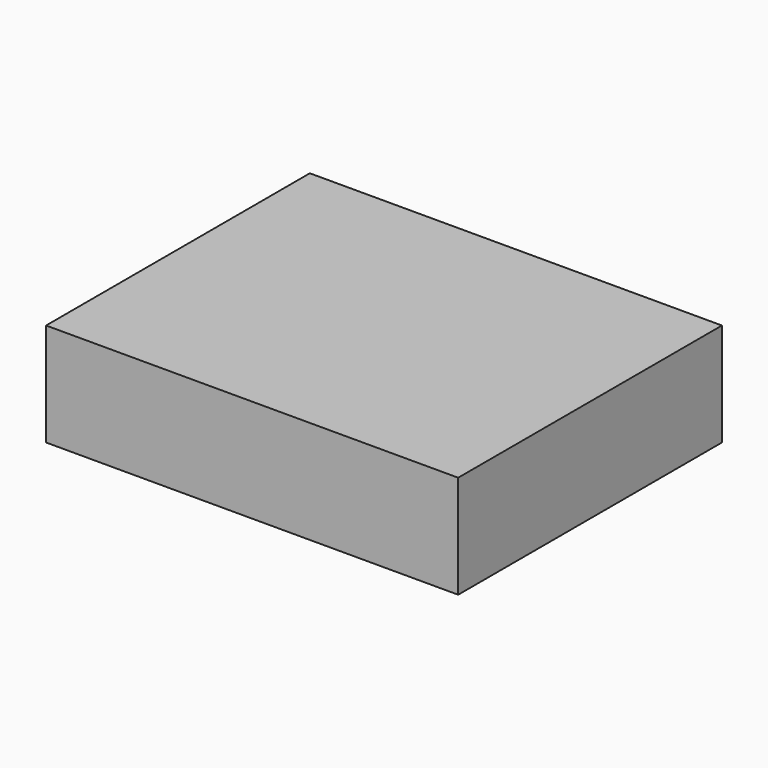
from build123d import *

# Parameters (mm, degrees)
SKETCH_W  = 100
SKETCH_H  = 80
PAD_DEPTH = 25


with BuildPart() as part:
    # Sketch → Pad (new body)
    with BuildSketch(Plane.XY):
        with Locations((10, 0)):
            Rectangle(SKETCH_W, SKETCH_H)
    extrude(amount=PAD_DEPTH)


solid = part.part
